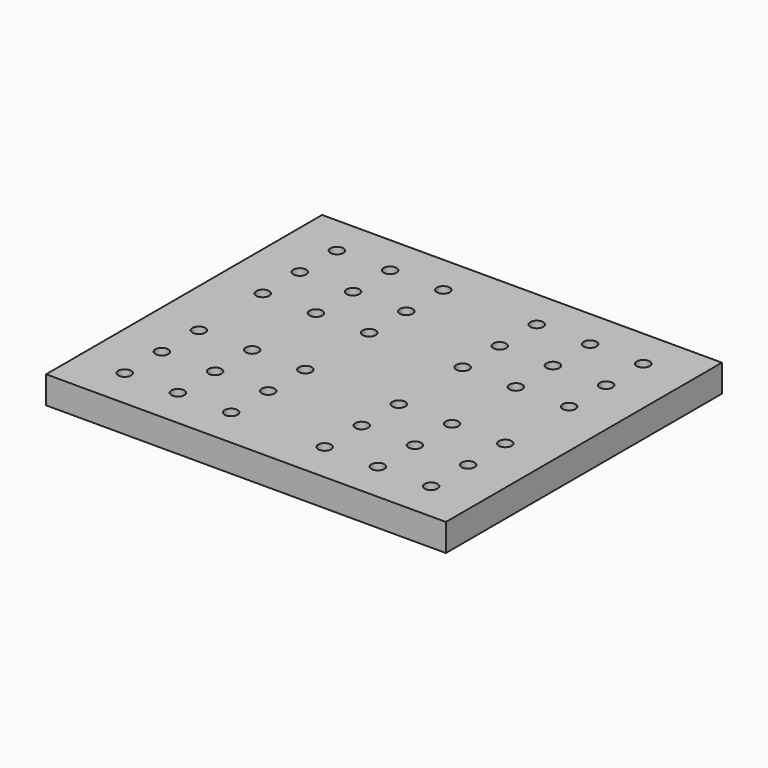
from build123d import *

# Parameters (mm, degrees)
F0_R     = 1.5
F1_DEPTH = 6.35


with BuildPart() as f1:
    # F0 (on Top) → F1 (new body)
    with BuildSketch(Plane.XY):
        Polygon((46.35, 40), (0, 40), (0, 0), (0, -40), (46.35, -40), (46.35, 0), align=None)
        with Locations((10.8375, -30.75)):
            Circle(F0_R, mode=Mode.SUBTRACT)
        with Locations((23.175, -30.75)):
            Circle(F0_R, mode=Mode.SUBTRACT)
        with Locations((35.5125, -30.75)):
            Circle(F0_R, mode=Mode.SUBTRACT)
        with Locations((10.8375, -20)):
            Circle(F0_R, mode=Mode.SUBTRACT)
        with Locations((10.8375, -9.25)):
            Circle(F0_R, mode=Mode.SUBTRACT)
        with Locations((23.175, -20)):
            Circle(F0_R, mode=Mode.SUBTRACT)
        with Locations((35.5125, -20)):
            Circle(F0_R, mode=Mode.SUBTRACT)
        with Locations((23.175, -9.25)):
            Circle(F0_R, mode=Mode.SUBTRACT)
        with Locations((35.5125, -9.25)):
            Circle(F0_R, mode=Mode.SUBTRACT)
        with Locations((10.8375, 9.25)):
            Circle(F0_R, mode=Mode.SUBTRACT)
        with Locations((23.175, 9.25)):
            Circle(F0_R, mode=Mode.SUBTRACT)
        with Locations((35.5125, 9.25)):
            Circle(F0_R, mode=Mode.SUBTRACT)
        with Locations((10.8375, 20)):
            Circle(F0_R, mode=Mode.SUBTRACT)
        with Locations((10.8375, 30.75)):
            Circle(F0_R, mode=Mode.SUBTRACT)
        with Locations((23.175, 20)):
            Circle(F0_R, mode=Mode.SUBTRACT)
        with Locations((35.5125, 20)):
            Circle(F0_R, mode=Mode.SUBTRACT)
        with Locations((23.175, 30.75)):
            Circle(F0_R, mode=Mode.SUBTRACT)
        with Locations((35.5125, 30.75)):
            Circle(F0_R, mode=Mode.SUBTRACT)
        Polygon((0, 0), (0, 40), (-46.35, 40), (-46.35, 0), (-46.35, -40), (0, -40), align=None)
        with Locations((-35.5125, -30.75)):
            Circle(F0_R, mode=Mode.SUBTRACT)
        with Locations((-23.175, -30.75)):
            Circle(F0_R, mode=Mode.SUBTRACT)
        with Locations((-10.8375, -30.75)):
            Circle(F0_R, mode=Mode.SUBTRACT)
        with Locations((-35.5125, -20)):
            Circle(F0_R, mode=Mode.SUBTRACT)
        with Locations((-23.175, -20)):
            Circle(F0_R, mode=Mode.SUBTRACT)
        with Locations((-35.5125, -9.25)):
            Circle(F0_R, mode=Mode.SUBTRACT)
        with Locations((-23.175, -9.25)):
            Circle(F0_R, mode=Mode.SUBTRACT)
        with Locations((-10.8375, -20)):
            Circle(F0_R, mode=Mode.SUBTRACT)
        with Locations((-10.8375, -9.25)):
            Circle(F0_R, mode=Mode.SUBTRACT)
        with Locations((-35.5125, 9.25)):
            Circle(F0_R, mode=Mode.SUBTRACT)
        with Locations((-23.175, 9.25)):
            Circle(F0_R, mode=Mode.SUBTRACT)
        with Locations((-10.8375, 9.25)):
            Circle(F0_R, mode=Mode.SUBTRACT)
        with Locations((-35.5125, 20)):
            Circle(F0_R, mode=Mode.SUBTRACT)
        with Locations((-23.175, 20)):
            Circle(F0_R, mode=Mode.SUBTRACT)
        with Locations((-35.5125, 30.75)):
            Circle(F0_R, mode=Mode.SUBTRACT)
        with Locations((-23.175, 30.75)):
            Circle(F0_R, mode=Mode.SUBTRACT)
        with Locations((-10.8375, 20)):
            Circle(F0_R, mode=Mode.SUBTRACT)
        with Locations((-10.8375, 30.75)):
            Circle(F0_R, mode=Mode.SUBTRACT)
    extrude(amount=F1_DEPTH)


solid = f1.part
